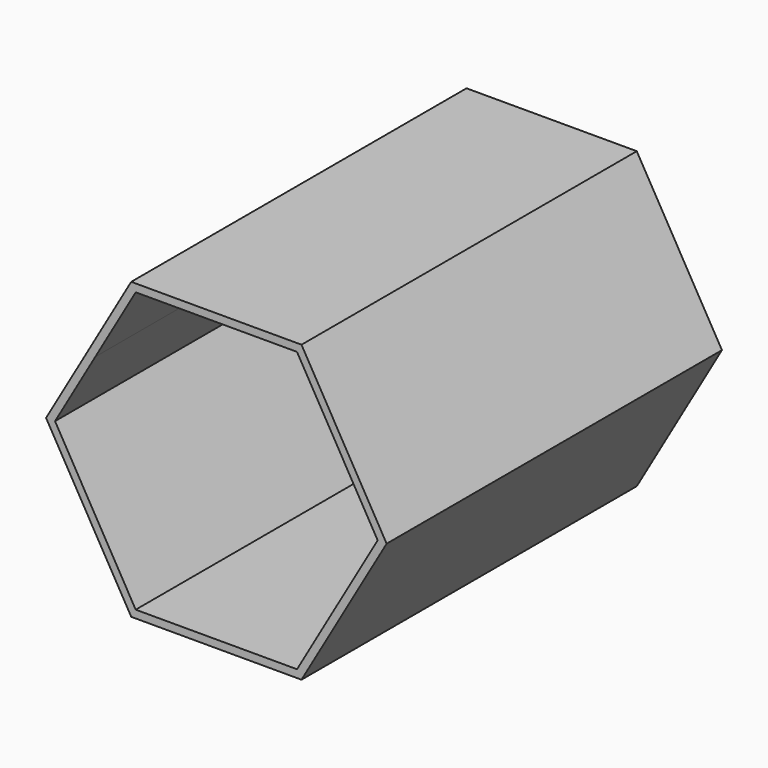
from build123d import *

# Parameters (mm, degrees)
F1_DEPTH = 168.275
F3_DEPTH = 3.175


with BuildPart() as f1:
    # F0 (on Front) → F1 (new body)
    with BuildSketch(Plane.XZ):
        Polygon((34.828655, 60.325), (-34.828655, 60.325), (-69.65731, 0), (-34.828655, -60.325), (34.828655, -60.325), (69.65731, 0), align=None)
        Polygon((32.995568, 57.15), (49.493352, 28.575), (65.991136, 0), (49.493351, -28.575001), (32.995568, -57.15), (0, -57.15), (-32.995568, -57.15), (-49.493352, -28.575), (-65.991136, 0), (-49.493351, 28.575001), (-32.995568, 57.15), (0, 57.15), align=None, mode=Mode.SUBTRACT)
    extrude(amount=F1_DEPTH)

    # F2 (on Front) → F3 (join)
    with BuildSketch(Plane.XZ):
        Polygon((-34.828655, 60.325), (-69.65731, 0), (-34.828655, -60.325), (34.828655, -60.325), (69.65731, 0), (34.828655, 60.325), align=None)
    extrude(amount=-F3_DEPTH)


solid = f1.part
